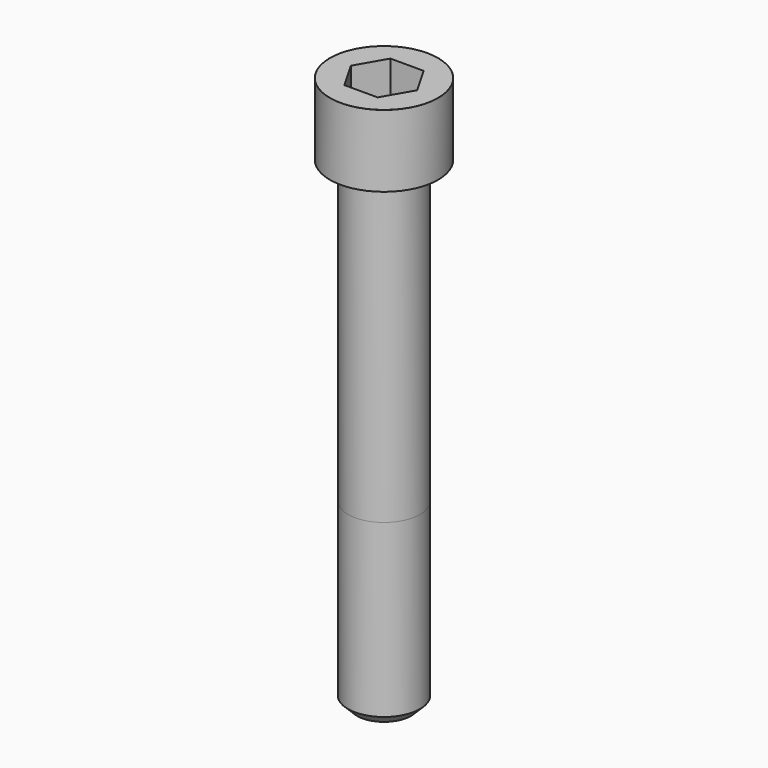
from build123d import *

# Parameters (mm, degrees)
POCKET_DEPTH = 19.15


with BuildPart() as part:
    # Sketch → Revolve (revolve)
    with BuildSketch(Plane.YZ):
        with BuildLine():
            Line((11.999, 0), (18, 0))
            Line((18, 0), (18, 23.97229))
            ThreePointArc((18, 23.97229), (17.991884, 23.991884), (17.97229, 24))
            Line((17.97229, 24), (0, 24))
            Line((0, -160), (0, 24))
            Line((9, -160), (0, -160))
            Line((12, -157), (9, -160))
            Line((12, -100), (12, -157))
            Line((11.999, 0), (12, -100))
        make_face()
    revolve(axis=Axis((0, 0, 0), (0, 0, 1)))

    # Sketch001 → Pocket (cut)
    with BuildSketch(Plane.XY.offset(24)):
        Polygon((11.056258, 0), (5.528129, 9.575), (-5.528129, 9.575), (-11.056258, 0), (-5.528129, -9.575), (5.528129, -9.575), align=None)
    extrude(amount=-POCKET_DEPTH, mode=Mode.SUBTRACT)


solid = part.part
